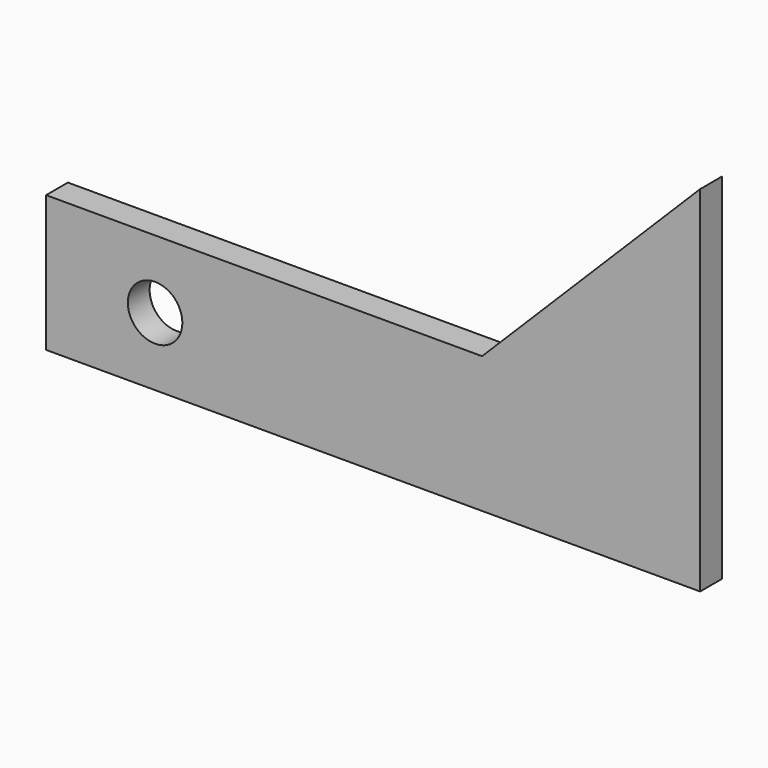
from build123d import *

# Parameters (mm, degrees)
F0_R     = 5
F1_DEPTH = 5


with BuildPart() as f1:
    # F0 (on Front) → F1 (new body)
    with BuildSketch(Plane.XZ):
        Polygon((60, 12.5), (-20, 12.5), (-20, -12.5), (100, -12.5), (100, 12.5), align=None)
        Circle(F0_R, mode=Mode.SUBTRACT)
        Polygon((100, 52.5), (60, 12.5), (100, 12.5), align=None)
    extrude(amount=F1_DEPTH)


solid = f1.part
